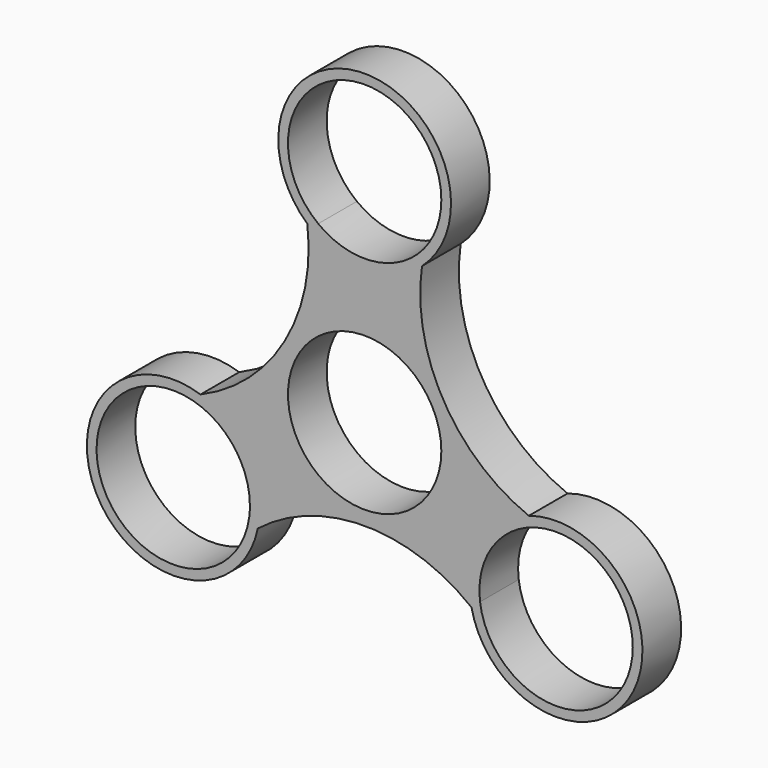
from build123d import *

# Parameters (mm, degrees)
F0_R     = 11.1
F1_DEPTH = 7


with BuildPart() as f1:
    # F0 (on Front) → F1 (new body)
    with BuildSketch(Plane.XZ):
        with BuildLine():
            ThreePointArc((-6.72288, 23.16751), (-4.928795, 41.945702), (11.1, 32))
            ThreePointArc((11.1, 32), (9.945702, 27.071205), (6.72288, 23.16751))
            ThreePointArc((6.72288, 23.16751), (7.514701, 22.922912), (8.297654, 22.65126))
            ThreePointArc((8.297654, 22.65126), (0, 44.5), (-8.297654, 22.65126))
            ThreePointArc((-8.297654, 22.65126), (-7.514701, 22.922912), (-6.72288, 23.16751))
        make_face()
        with BuildLine():
            ThreePointArc((6.72288, 23.16751), (0, 20.9), (-6.72288, 23.16751))
            ThreePointArc((-6.72288, 23.16751), (-7.514701, 22.922912), (-8.297654, 22.65126))
            ThreePointArc((-8.297654, 22.65126), (-11.556009, 6.671865), (-23.765393, -4.139651))
            ThreePointArc((-23.765393, -4.139651), (-23.609175, -4.953534), (-23.425092, -5.76157))
            ThreePointArc((-23.425092, -5.76157), (-18.471501, -9.851167), (-16.612813, -16))
            ThreePointArc((-16.612813, -16), (-16.635185, -16.70439), (-16.702212, -17.40594))
            ThreePointArc((-16.702212, -17.40594), (-16.094473, -17.969378), (-15.46774, -18.511609))
            ThreePointArc((-15.46774, -18.511609), (0, -13.152104), (15.46774, -18.511609))
            ThreePointArc((15.46774, -18.511609), (16.094473, -17.969378), (16.702212, -17.40594))
            ThreePointArc((16.702212, -17.40594), (18.099931, -10.45), (23.425092, -5.76157))
            ThreePointArc((23.425092, -5.76157), (23.609175, -4.953534), (23.765393, -4.139651))
            ThreePointArc((23.765393, -4.139651), (11.390056, 6.576052), (8.297654, 22.65126))
            ThreePointArc((8.297654, 22.65126), (7.514701, 22.922912), (6.72288, 23.16751))
        make_face()
        Circle(F0_R, mode=Mode.SUBTRACT)
        with BuildLine():
            ThreePointArc((-23.425092, -5.76157), (-23.609175, -4.953534), (-23.765393, -4.139651))
            ThreePointArc((-23.765393, -4.139651), (-38.53813, -22.25), (-15.46774, -18.511609))
            ThreePointArc((-15.46774, -18.511609), (-16.094473, -17.969378), (-16.702212, -17.40594))
            ThreePointArc((-16.702212, -17.40594), (-37.325695, -21.55), (-23.425092, -5.76157))
        make_face()
        with BuildLine():
            ThreePointArc((15.46774, -18.511609), (38.53813, -22.25), (23.765393, -4.139651))
            ThreePointArc((23.765393, -4.139651), (23.609175, -4.953534), (23.425092, -5.76157))
            ThreePointArc((23.425092, -5.76157), (33.861646, -6.758688), (38.812813, -16))
            ThreePointArc((38.812813, -16), (28.417203, -27.077628), (16.702212, -17.40594))
            ThreePointArc((16.702212, -17.40594), (16.094473, -17.969378), (15.46774, -18.511609))
        make_face()
    extrude(amount=F1_DEPTH)


solid = f1.part
